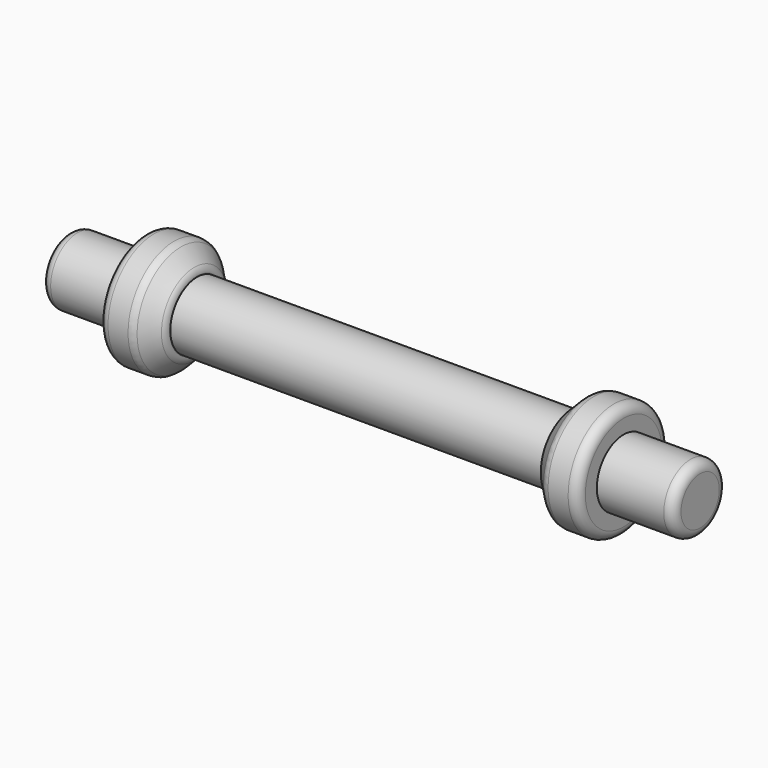
from build123d import *

# Parameters (mm, degrees)
F3_SIZE = 10
F4_R    = 5
F5_R    = 5


with BuildPart() as f1:
    # F0 (on Front) → F1 (revolve)
    with BuildSketch(Plane.XZ):
        Polygon((0, 17.5), (0, 0), (165.2458313006, 0), (165.2458313006, 17.5), (125.2458313006, 17.5), (125.2458313006, 30), (97.7048704189, 30), (97.7048704189, 17.5), align=None)
    revolve(axis=Axis((82.6229156503, 0, 0), (1, 0, 0)))

    # F2: F1 across face


with BuildPart() as f1_1:
    add(f1.part)
    add(f1.part.mirror(Plane(origin=(0, 0, 0), x_dir=(0, -1, 0), z_dir=(-1, 0, 0))))

    # F3
    f3_edges = [f1_1.edges().sort_by_distance(p)[0] for p in [
        (97.70487, 0, -30),
        (-97.70487, 0, -30),
    ]]
    chamfer(f3_edges, length=F3_SIZE)

    # F4
    f4_edges = [f1_1.edges().sort_by_distance(p)[0] for p in [
        (-107.70487, 0, -30),
        (-97.70487, 0, -20),
        (97.70487, 0, -20),
        (107.70487, 0, -30),
    ]]
    fillet(f4_edges, radius=F4_R)

    # F5
    f5_edges = [f1_1.edges().sort_by_distance(p)[0] for p in [
        (-165.245831, 0, -17.5),
        (165.245831, 0, -17.5),
        (125.245831, 0, -30),
        (-125.245831, 0, -30),
    ]]
    fillet(f5_edges, radius=F5_R)


solid = f1_1.part
